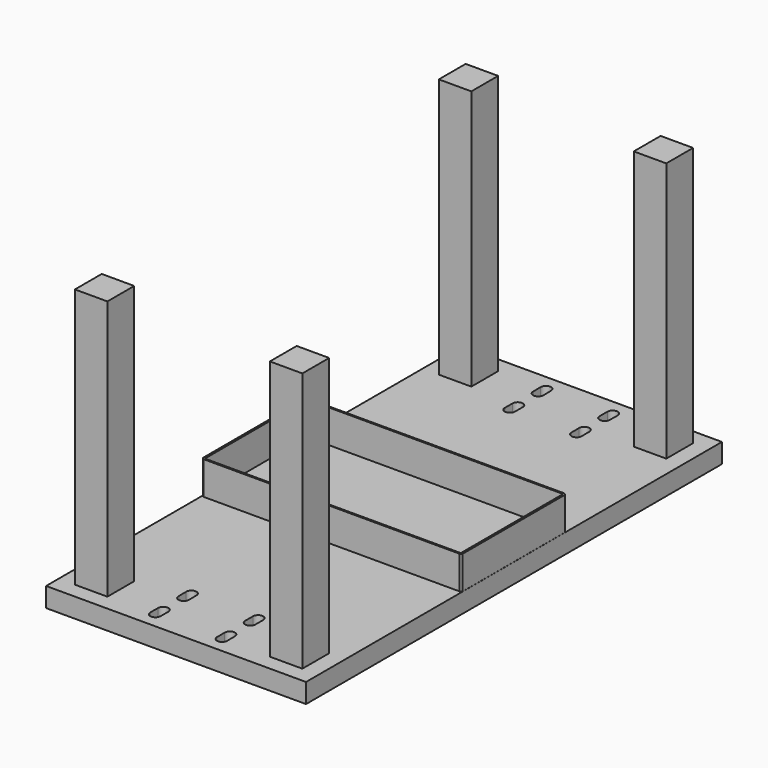
from build123d import *

# Parameters (mm, degrees)
F0_W     = 101.6
F0_H     = 203.2
F1_DEPTH = 7.62
F3_DEPTH = 25.4
F4_W     = 12.7
F4_H     = 13.10565
F5_DEPTH = 101.6
F6_W     = 100
F6_H     = 50
F7_DEPTH = 12.954


with BuildPart() as f1:
    # F0 (on Top) → F1 (new body)
    with BuildSketch(Plane.XY):
        Rectangle(F0_W, F0_H)
    extrude(amount=F1_DEPTH)

    # F2 (on Top) → F3 (cut)
    with BuildSketch(Plane.XY):
        with BuildLine():
            Line((-15.035691, -77.822713), (-14.988321, -81.421245))
            ThreePointArc((-14.988321, -81.421245), (-13.081192, -83.592345), (-11.008666, -81.578528))
            Line((-11.008666, -81.578528), (-11.048887, -77.843856))
            ThreePointArc((-11.048887, -77.843856), (-13.031485, -75.796128), (-15.035691, -77.822713))
        make_face()
        with BuildLine():
            ThreePointArc((-15.035691, -95.377287), (-13.031485, -97.403872), (-11.048887, -95.356144))
            Line((-11.048887, -95.356144), (-11.008666, -91.621472))
            ThreePointArc((-11.008666, -91.621472), (-13.081192, -89.607655), (-14.988321, -91.778755))
            Line((-14.988321, -91.778755), (-15.035691, -95.377287))
        make_face()
        with BuildLine():
            ThreePointArc((15.035691, -77.822713), (13.031485, -75.796128), (11.048887, -77.843856))
            Line((11.048887, -77.843856), (11.008666, -81.578528))
            ThreePointArc((11.008666, -81.578528), (13.081192, -83.592345), (14.988321, -81.421245))
            Line((14.988321, -81.421245), (15.035691, -77.822713))
        make_face()
        with BuildLine():
            Line((11.008666, -91.621472), (11.048887, -95.356144))
            ThreePointArc((11.048887, -95.356144), (13.031485, -97.403872), (15.035691, -95.377287))
            Line((15.035691, -95.377287), (14.988321, -91.778755))
            ThreePointArc((14.988321, -91.778755), (13.081192, -89.607655), (11.008666, -91.621472))
        make_face()
        with BuildLine():
            ThreePointArc((15.035691, 95.377287), (13.031485, 97.403872), (11.048887, 95.356144))
            Line((11.048887, 95.356144), (11.008666, 91.621472))
            ThreePointArc((11.008666, 91.621472), (13.081192, 89.607655), (14.988321, 91.778755))
            Line((14.988321, 91.778755), (15.035691, 95.377287))
        make_face()
        with BuildLine():
            Line((-11.008666, 91.621472), (-11.048887, 95.356144))
            ThreePointArc((-11.048887, 95.356144), (-13.031485, 97.403872), (-15.035691, 95.377287))
            Line((-15.035691, 95.377287), (-14.988321, 91.778755))
            ThreePointArc((-14.988321, 91.778755), (-13.081192, 89.607655), (-11.008666, 91.621472))
        make_face()
        with BuildLine():
            ThreePointArc((-15.035691, 77.822713), (-13.031485, 75.796128), (-11.048887, 77.843856))
            Line((-11.048887, 77.843856), (-11.008666, 81.578528))
            ThreePointArc((-11.008666, 81.578528), (-13.081192, 83.592345), (-14.988321, 81.421245))
            Line((-14.988321, 81.421245), (-15.035691, 77.822713))
        make_face()
        with BuildLine():
            ThreePointArc((11.048887, 77.843856), (13.031485, 75.796128), (15.035691, 77.822713))
            Line((15.035691, 77.822713), (14.988321, 81.421245))
            ThreePointArc((14.988321, 81.421245), (13.081192, 83.592345), (11.008666, 81.578528))
            Line((11.008666, 81.578528), (11.048887, 77.843856))
        make_face()
    extrude(amount=F3_DEPTH, mode=Mode.SUBTRACT)

    # F4 (on face) → F5 (join)
    with BuildSketch(Plane.XY.offset(7.62)):
        with Locations((38.1, 88.9)):
            Rectangle(F4_W, F4_H)
        with Locations((-38.1, 88.9)):
            Rectangle(F4_W, F4_H)
        with Locations((38.1, -88.9)):
            Rectangle(F4_W, F4_H)
        with Locations((-38.1, -88.9)):
            Rectangle(F4_W, F4_H)
    extrude(amount=F5_DEPTH)

    # F6 (on face) → F7 (join)
    with BuildSketch(Plane.XY.offset(7.62)):
        Polygon((50, 25.5842), (-50, 25.5842), (-50.777242, 25), (-50.777242, -25), (-50, -25.5842), (50, -25.5842), (50.762001, -25), (50.762001, 25), align=None)
        Rectangle(F6_W, F6_H, mode=Mode.SUBTRACT)
    extrude(amount=F7_DEPTH)


solid = f1.part
